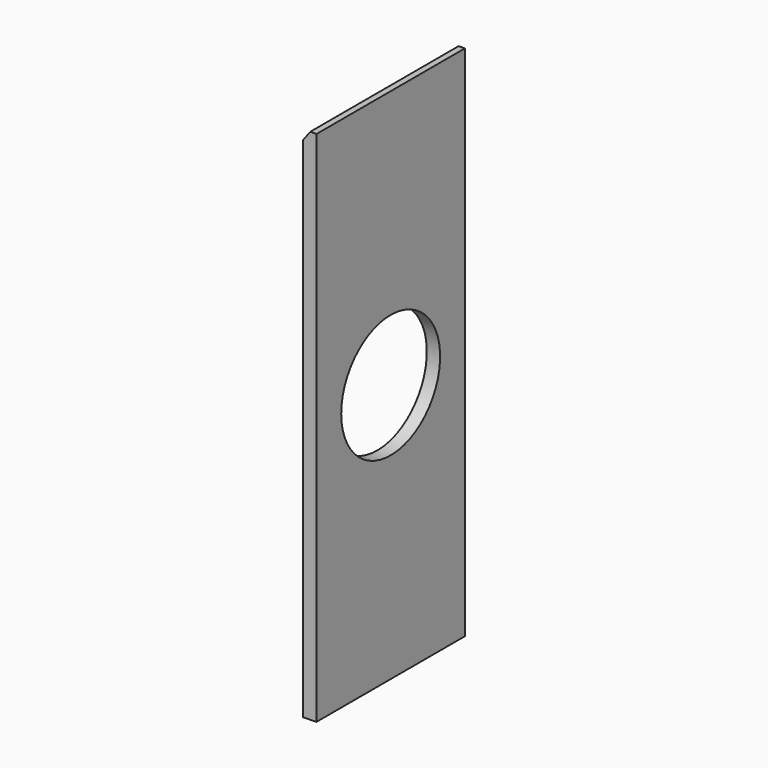
from build123d import *

# Parameters (mm, degrees)
F1_DEPTH = 571.5
F3_D     = 381


with BuildPart() as f1:
    # F0 (on Front) → F1 (new body)
    with BuildSketch(Plane.XZ):
        Polygon((-41.046858, -0.805984), (0, 0), (0, 1595.176773), (-19.05, 1595.176773), (-41.046858, 1565.84763), align=None)
    extrude(amount=F1_DEPTH)

    # F3 (through all)
    with Locations(Plane.YZ):
        with Locations((-285.75, 797.588387)):
            Hole(F3_D / 2)


solid = f1.part
